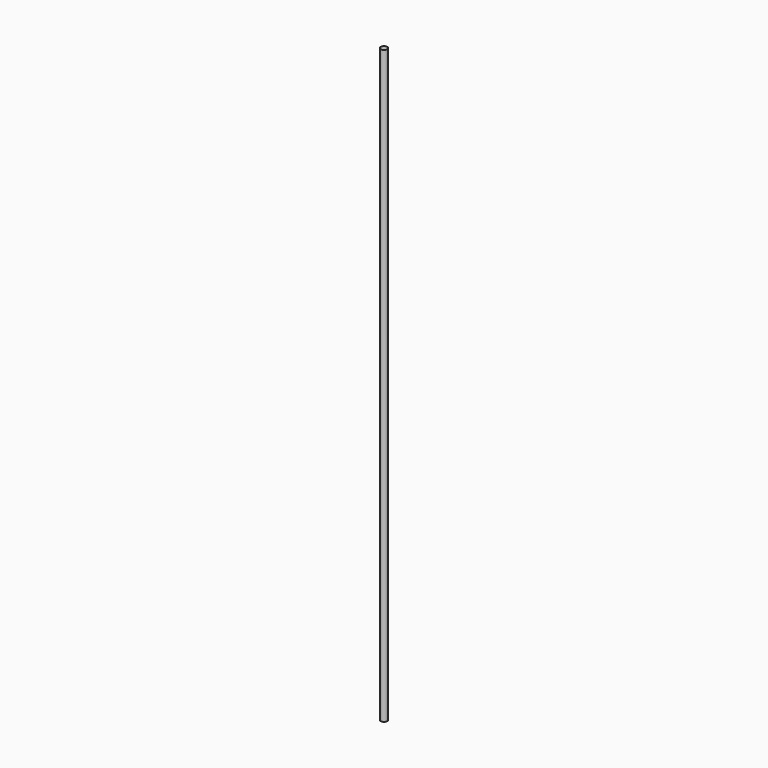
from build123d import *

# Parameters (mm, degrees)
SKETCH_R  = 1.6
PAD_DEPTH = 285.75


with BuildPart() as part:
    # Sketch → Pad (new body)
    with BuildSketch(Plane.XY):
        Circle(SKETCH_R)
    extrude(amount=PAD_DEPTH)


solid = part.part
